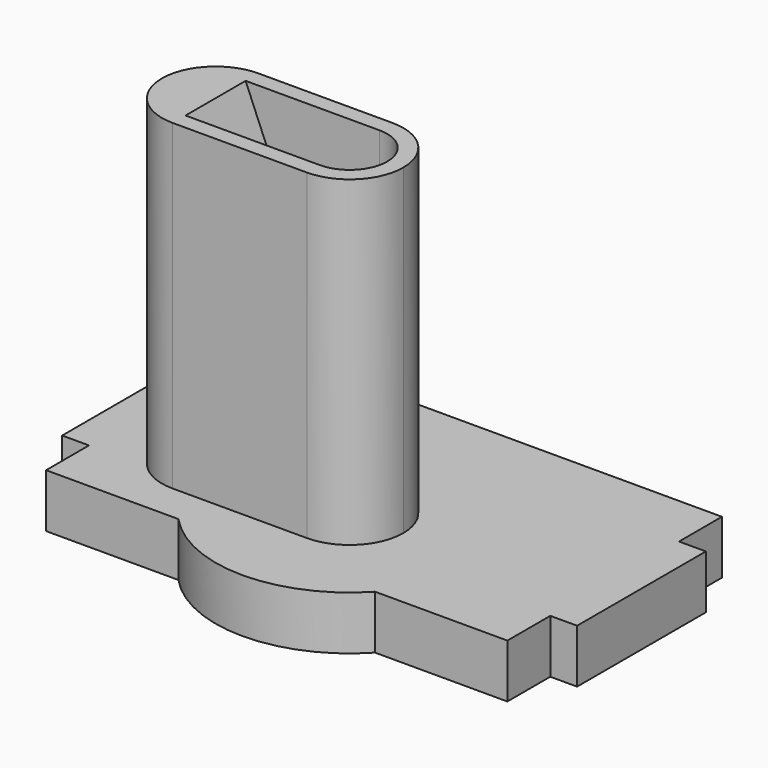
from build123d import *

# Parameters (mm, degrees)
F2_DEPTH = 5
F3_DEPTH = 40
F4_DEPTH = 10
F5_DEPTH = 40
F7_DEPTH = 20


with BuildPart() as f2:
    # F1 (on Front) → F2 (new body, symmetric)
    with BuildSketch(Plane.XZ):
        Polygon((-12.5, 10), (0, 10), (-12.5, 40), align=None)
    extrude(amount=F2_DEPTH, both=True)

    # F0 (on Top) → F5 (cut)
    with BuildSketch(Plane.XY):
        with BuildLine():
            Line((0, 0), (0, 3.5))
            ThreePointArc((0, 3.5), (-2.4748737342, 2.4748737342), (-3.5, 0))
            Line((-3.5, 0), (0, 0))
        make_face()
        with BuildLine():
            ThreePointArc((-3.5, 0), (-2.4748737342, -2.4748737342), (0, -3.5))
            Line((0, -3.5), (0, 0))
            Line((0, 0), (-3.5, 0))
        make_face()
    extrude(amount=F5_DEPTH, mode=Mode.SUBTRACT)


with BuildPart() as f3:
    # F0 (on Top) → F3 (new body)
    with BuildSketch(Plane.XY):
        with BuildLine():
            Line((3.5, 0), (5, 0))
            ThreePointArc((5, 0), (3.5355339059, 3.5355339059), (0, 5))
            Line((0, 5), (0, 3.5))
            ThreePointArc((0, 3.5), (2.4748737342, 2.4748737342), (3.5, 0))
        make_face()
        with BuildLine():
            ThreePointArc((0, -5), (3.5355339059, -3.5355339059), (5, 0))
            Line((5, 0), (3.5, 0))
            ThreePointArc((3.5, 0), (2.4748737342, -2.4748737342), (0, -3.5))
            Line((0, -3.5), (0, -5))
        make_face()
        with BuildLine():
            Line((-11.4564392374, -5), (0, -5))
            ThreePointArc((0, -5), (-1.9364916731, -4.6097722286), (-3.5707142143, -3.5))
            Line((-3.5707142143, -3.5), (-8.9292857857, -3.5))
            ThreePointArc((-8.9292857857, -3.5), (-10.1099910027, -4.3917942794), (-11.5, -4.8989794856))
            ThreePointArc((-11.5, -4.8989794856), (-11.4783307541, -4.9495376652), (-11.4564392374, -5))
        make_face()
        with BuildLine():
            ThreePointArc((-3.5707142143, 3.5), (-1.9364916731, 4.6097722286), (0, 5))
            Line((0, 5), (-11.4564392374, 5))
            ThreePointArc((-11.4564392374, 5), (-11.4783307541, 4.9495376652), (-11.5, 4.8989794856))
            ThreePointArc((-11.5, 4.8989794856), (-10.1099910027, 4.3917942794), (-8.9292857857, 3.5))
            Line((-8.9292857857, 3.5), (-3.5707142143, 3.5))
        make_face()
        with BuildLine():
            Line((0, 3.5), (0, 5))
            ThreePointArc((0, 5), (-1.9364916731, 4.6097722286), (-3.5707142143, 3.5))
            Line((-3.5707142143, 3.5), (0, 3.5))
        make_face()
        with BuildLine():
            ThreePointArc((-3.5707142143, -3.5), (-1.9364916731, -4.6097722286), (0, -5))
            Line((0, -5), (0, -3.5))
            Line((0, -3.5), (-3.5707142143, -3.5))
        make_face()
        with BuildLine():
            Line((-12.5, 3.5), (-12.5, 5))
            ThreePointArc((-12.5, 5), (-16.0355339059, 3.5355339059), (-17.5, 0))
            Line((-17.5, 0), (-15.5, 0))
            ThreePointArc((-15.5, 0), (-14.6213203436, 2.1213203436), (-12.5, 3))
            Line((-12.5, 3), (-12.5, 3.5))
        make_face()
        with BuildLine():
            ThreePointArc((-17.5, 0), (-16.0355339059, -3.5355339059), (-12.5, -5))
            Line((-12.5, -5), (-12.5, -3.5))
            Line((-12.5, -3.5), (-12.5, -3))
            ThreePointArc((-12.5, -3), (-14.6213203436, -2.1213203436), (-15.5, 0))
            Line((-15.5, 0), (-17.5, 0))
        make_face()
        with BuildLine():
            Line((-12.5, 0), (-15.5, 0))
            ThreePointArc((-15.5, 0), (-14.6213203436, -2.1213203436), (-12.5, -3))
            Line((-12.5, -3), (-12.5, 0))
        make_face()
        with BuildLine():
            ThreePointArc((-12.5, 3), (-14.6213203436, 2.1213203436), (-15.5, 0))
            Line((-15.5, 0), (-12.5, 0))
            Line((-12.5, 0), (-12.5, 3))
        make_face()
        with BuildLine():
            ThreePointArc((-12, 3.5), (-11.7708022624, 4.2069245417), (-11.5, 4.8989794856))
            ThreePointArc((-11.5, 4.8989794856), (-11.99745519, 4.974680765), (-12.5, 5))
            Line((-12.5, 5), (-12.5, 3.5))
            Line((-12.5, 3.5), (-12, 3.5))
        make_face()
        with BuildLine():
            ThreePointArc((-12.5, -5), (-11.99745519, -4.974680765), (-11.5, -4.8989794856))
            ThreePointArc((-11.5, -4.8989794856), (-11.7708022624, -4.2069245417), (-12, -3.5))
            Line((-12, -3.5), (-12.5, -3.5))
            Line((-12.5, -3.5), (-12.5, -5))
        make_face()
        with BuildLine():
            ThreePointArc((-8.9292857857, 3.5), (-10.1099910027, 4.3917942794), (-11.5, 4.8989794856))
            ThreePointArc((-11.5, 4.8989794856), (-11.7708022624, 4.2069245417), (-12, 3.5))
            Line((-12, 3.5), (-8.9292857857, 3.5))
        make_face()
        with BuildLine():
            ThreePointArc((-11.5, -4.8989794856), (-10.1099910027, -4.3917942794), (-8.9292857857, -3.5))
            Line((-8.9292857857, -3.5), (-12, -3.5))
            ThreePointArc((-12, -3.5), (-11.7708022624, -4.2069245417), (-11.5, -4.8989794856))
        make_face()
        with BuildLine():
            ThreePointArc((-11.5, 4.8989794856), (-11.4783307541, 4.9495376652), (-11.4564392374, 5))
            Line((-11.4564392374, 5), (-12.5, 5))
            ThreePointArc((-12.5, 5), (-11.99745519, 4.974680765), (-11.5, 4.8989794856))
        make_face()
        with BuildLine():
            Line((-12.5, -5), (-11.4564392374, -5))
            ThreePointArc((-11.4564392374, -5), (-11.4783307541, -4.9495376652), (-11.5, -4.8989794856))
            ThreePointArc((-11.5, -4.8989794856), (-11.99745519, -4.974680765), (-12.5, -5))
        make_face()
    extrude(amount=F3_DEPTH)


with BuildPart() as f4:
    # F0 (on Top) → F4 (new body)
    with BuildSketch(Plane.XY):
        with BuildLine():
            ThreePointArc((-11.4564392374, 5), (-6.8465319688, 10.4582503317), (0, 12.5))
            Line((0, 12.5), (0, 16.5))
            Line((0, 16.5), (-21.5, 16.5))
            Line((-21.5, 16.5), (-21.5, 11.5))
            Line((-21.5, 11.5), (-24, 11.5))
            Line((-24, 11.5), (-24, 0))
            Line((-24, 0), (-17.5, 0))
            ThreePointArc((-17.5, 0), (-16.0355339059, 3.5355339059), (-12.5, 5))
            Line((-12.5, 5), (-11.4564392374, 5))
        make_face()
        with BuildLine():
            Line((-21.5, -8.5), (-9.1651513899, -8.5))
            ThreePointArc((-9.1651513899, -8.5), (-10.4582503317, -6.8465319688), (-11.4564392374, -5))
            Line((-11.4564392374, -5), (-12.5, -5))
            ThreePointArc((-12.5, -5), (-16.0355339059, -3.5355339059), (-17.5, 0))
            Line((-17.5, 0), (-24, 0))
            Line((-24, 0), (-24, -3.5))
            Line((-24, -3.5), (-21.5, -3.5))
            Line((-21.5, -3.5), (-21.5, -8.5))
        make_face()
        with BuildLine():
            Line((0, -8.5), (0, -5))
            Line((0, -5), (-11.4564392374, -5))
            ThreePointArc((-11.4564392374, -5), (-10.4582503317, -6.8465319688), (-9.1651513899, -8.5))
            Line((-9.1651513899, -8.5), (0, -8.5))
        make_face()
        with BuildLine():
            ThreePointArc((9.1651513899, -8.5), (10.4582503317, -6.8465319688), (11.4564392374, -5))
            Line((11.4564392374, -5), (0, -5))
            Line((0, -5), (0, -8.5))
            Line((0, -8.5), (9.1651513899, -8.5))
        make_face()
        with BuildLine():
            ThreePointArc((-9.1651513899, -8.5), (0, -12.5), (9.1651513899, -8.5))
            Line((9.1651513899, -8.5), (0, -8.5))
            Line((0, -8.5), (-9.1651513899, -8.5))
        make_face()
        with BuildLine():
            Line((24, 0), (12.5, 0))
            ThreePointArc((12.5, 0), (12.2363289116, -2.5538705461), (11.4564392374, -5))
            ThreePointArc((11.4564392374, -5), (10.4582503317, -6.8465319688), (9.1651513899, -8.5))
            Line((9.1651513899, -8.5), (21.5, -8.5))
            Line((21.5, -8.5), (21.5, -3.5))
            Line((21.5, -3.5), (24, -3.5))
            Line((24, -3.5), (24, 0))
        make_face()
        with BuildLine():
            ThreePointArc((11.4564392374, 5), (12.2363289116, 2.5538705461), (12.5, 0))
            Line((12.5, 0), (24, 0))
            Line((24, 0), (24, 11.5))
            Line((24, 11.5), (21.5, 11.5))
            Line((21.5, 11.5), (21.5, 16.5))
            Line((21.5, 16.5), (0, 16.5))
            Line((0, 16.5), (0, 12.5))
            ThreePointArc((0, 12.5), (6.8465319688, 10.4582503317), (11.4564392374, 5))
        make_face()
        with BuildLine():
            Line((0, 5), (11.4564392374, 5))
            ThreePointArc((11.4564392374, 5), (6.8465319688, 10.4582503317), (0, 12.5))
            Line((0, 12.5), (0, 5))
        make_face()
        with BuildLine():
            Line((0, 5), (0, 12.5))
            ThreePointArc((0, 12.5), (-6.8465319688, 10.4582503317), (-11.4564392374, 5))
            Line((-11.4564392374, 5), (0, 5))
        make_face()
        with BuildLine():
            Line((5, 0), (12.5, 0))
            ThreePointArc((12.5, 0), (12.2363289116, 2.5538705461), (11.4564392374, 5))
            Line((11.4564392374, 5), (0, 5))
            ThreePointArc((0, 5), (3.5355339059, 3.5355339059), (5, 0))
        make_face()
        with BuildLine():
            ThreePointArc((11.4564392374, -5), (12.2363289116, -2.5538705461), (12.5, 0))
            Line((12.5, 0), (5, 0))
            ThreePointArc((5, 0), (3.5355339059, -3.5355339059), (0, -5))
            Line((0, -5), (11.4564392374, -5))
        make_face()
    extrude(amount=F4_DEPTH)


with BuildPart() as f4b:
    # F0 (on Top) → F4, piece 2 (new body)
    with BuildSketch(Plane.XY):
        with BuildLine():
            Line((0, 3.5), (-3.5707142143, 3.5))
            ThreePointArc((-3.5707142143, 3.5), (-4.6289075964, 1.8902948088), (-5, 0))
            Line((-5, 0), (-3.5, 0))
            ThreePointArc((-3.5, 0), (-2.4748737342, 2.4748737342), (0, 3.5))
        make_face()
        with BuildLine():
            ThreePointArc((-5, 0), (-4.6289075964, 1.8902948088), (-3.5707142143, 3.5))
            Line((-3.5707142143, 3.5), (-8.9292857857, 3.5))
            ThreePointArc((-8.9292857857, 3.5), (-7.8710924036, 1.8902948088), (-7.5, 0))
            Line((-7.5, 0), (-5, 0))
        make_face()
        with BuildLine():
            Line((-8.9292857857, -3.5), (-3.5707142143, -3.5))
            ThreePointArc((-3.5707142143, -3.5), (-4.6289075964, -1.8902948088), (-5, 0))
            Line((-5, 0), (-7.5, 0))
            ThreePointArc((-7.5, 0), (-7.8710924036, -1.8902948088), (-8.9292857857, -3.5))
        make_face()
        with BuildLine():
            ThreePointArc((-5, 0), (-4.6289075964, -1.8902948088), (-3.5707142143, -3.5))
            Line((-3.5707142143, -3.5), (0, -3.5))
            ThreePointArc((0, -3.5), (-2.4748737342, -2.4748737342), (-3.5, 0))
            Line((-3.5, 0), (-5, 0))
        make_face()
        with BuildLine():
            Line((-12, -3.5), (-8.9292857857, -3.5))
            ThreePointArc((-8.9292857857, -3.5), (-7.8710924036, -1.8902948088), (-7.5, 0))
            Line((-7.5, 0), (-9.5, 0))
            ThreePointArc((-9.5, 0), (-10.2550055679, -1.9899748742), (-12.14, -2.978321675))
            ThreePointArc((-12.14, -2.978321675), (-12.072818108, -3.239917118), (-12, -3.5))
        make_face()
        with BuildLine():
            ThreePointArc((-7.5, 0), (-7.8710924036, 1.8902948088), (-8.9292857857, 3.5))
            Line((-8.9292857857, 3.5), (-12, 3.5))
            ThreePointArc((-12, 3.5), (-12.072818108, 3.239917118), (-12.14, 2.978321675))
            ThreePointArc((-12.14, 2.978321675), (-10.2550055679, 1.9899748742), (-9.5, 0))
            Line((-9.5, 0), (-7.5, 0))
        make_face()
        with BuildLine():
            ThreePointArc((-9.5, 0), (-10.2550055679, 1.9899748742), (-12.14, 2.978321675))
            ThreePointArc((-12.14, 2.978321675), (-12.409673646, 1.5), (-12.5, 0))
            Line((-12.5, 0), (-9.5, 0))
        make_face()
        with BuildLine():
            ThreePointArc((-12.14, -2.978321675), (-10.2550055679, -1.9899748742), (-9.5, 0))
            Line((-9.5, 0), (-12.5, 0))
            ThreePointArc((-12.5, 0), (-12.409673646, -1.5), (-12.14, -2.978321675))
        make_face()
        with BuildLine():
            ThreePointArc((-12.5, -3), (-12.3196739413, -2.9945755146), (-12.14, -2.978321675))
            ThreePointArc((-12.14, -2.978321675), (-12.409673646, -1.5), (-12.5, 0))
            Line((-12.5, 0), (-12.5, -3))
        make_face()
        with BuildLine():
            ThreePointArc((-12.5, 0), (-12.409673646, 1.5), (-12.14, 2.978321675))
            ThreePointArc((-12.14, 2.978321675), (-12.3196739413, 2.9945755146), (-12.5, 3))
            Line((-12.5, 3), (-12.5, 0))
        make_face()
        with BuildLine():
            ThreePointArc((-12.14, 2.978321675), (-12.072818108, 3.239917118), (-12, 3.5))
            Line((-12, 3.5), (-12.5, 3.5))
            Line((-12.5, 3.5), (-12.5, 3))
            ThreePointArc((-12.5, 3), (-12.3196739413, 2.9945755146), (-12.14, 2.978321675))
        make_face()
        with BuildLine():
            Line((-12.5, -3.5), (-12, -3.5))
            ThreePointArc((-12, -3.5), (-12.072818108, -3.239917118), (-12.14, -2.978321675))
            ThreePointArc((-12.14, -2.978321675), (-12.3196739413, -2.9945755146), (-12.5, -3))
            Line((-12.5, -3), (-12.5, -3.5))
        make_face()
    extrude(amount=F4_DEPTH)


with BuildPart() as f7_tool:
    # F6 (on Front) → F7 (new body, symmetric)
    with BuildSketch(Plane.XZ):
        Polygon((25, 45), (-25, 45), (-25, 5), (0, 5), (25, 5), align=None)
    extrude(amount=F7_DEPTH, both=True)


with BuildPart() as f2_1:
    add(f2.part)

    # F7: intersect by f7_tool
    add(f7_tool.part, mode=Mode.INTERSECT)


with BuildPart() as f3_1:
    add(f3.part)

    # F7: intersect by f7_tool
    add(f7_tool.part, mode=Mode.INTERSECT)


with BuildPart() as f4_1:
    add(f4.part)

    # F7: intersect by f7_tool
    add(f7_tool.part, mode=Mode.INTERSECT)


with BuildPart() as f4b_1:
    add(f4b.part)

    # F7: intersect by f7_tool
    add(f7_tool.part, mode=Mode.INTERSECT)


solid = Compound([f2_1.part, f3_1.part, f4_1.part, f4b_1.part])
